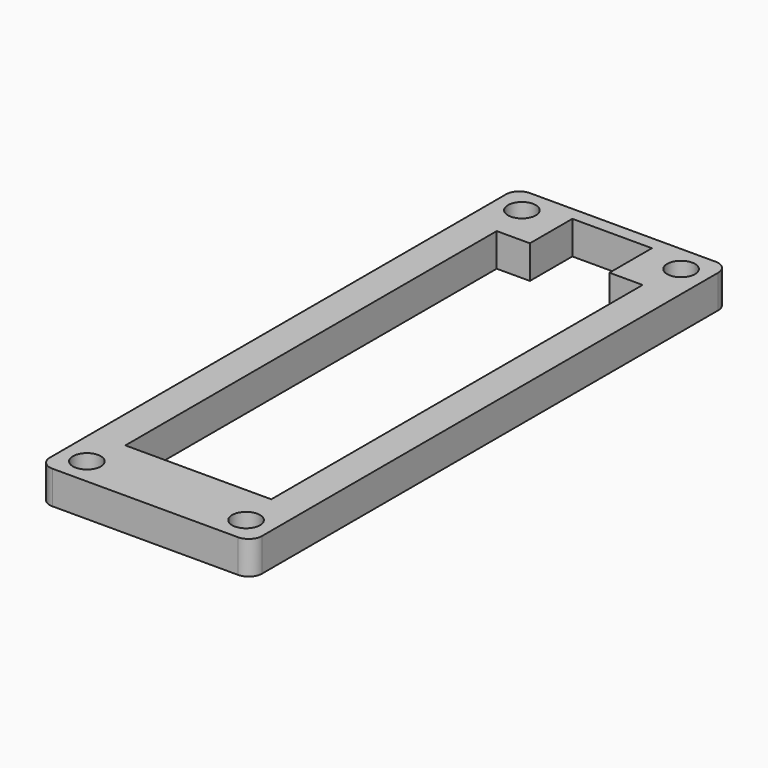
from build123d import *

# Parameters (mm, degrees)
SKETCH_W      = 32
SKETCH_H      = 90
SKETCH_R      = 2.1
EXTRUDE_DEPTH = 5
FILLET_R      = 2


with BuildPart() as part:
    # Sketch → Extrude (new body)
    with BuildSketch(Plane.XY):
        Rectangle(SKETCH_W, SKETCH_H)
        with Locations((-12, 41)):
            Circle(SKETCH_R, mode=Mode.SUBTRACT)
        with Locations((12, 41)):
            Circle(SKETCH_R, mode=Mode.SUBTRACT)
        with Locations((-12, -41)):
            Circle(SKETCH_R, mode=Mode.SUBTRACT)
        with Locations((12, -41)):
            Circle(SKETCH_R, mode=Mode.SUBTRACT)
        Polygon((11, 35), (11, -35), (-11, -35), (-11, 35), (-6, 35), (-6, 43), (6, 43), (6, 35), align=None, mode=Mode.SUBTRACT)
    extrude(amount=EXTRUDE_DEPTH)

    # Fillet
    fillet_edges = [part.edges().sort_by_distance(p)[0] for p in [
        (-16, 45, 2.5),
        (16, 45, 2.5),
        (16, -45, 2.5),
        (-16, -45, 2.5),
    ]]
    fillet(fillet_edges, radius=FILLET_R)


solid = part.part
